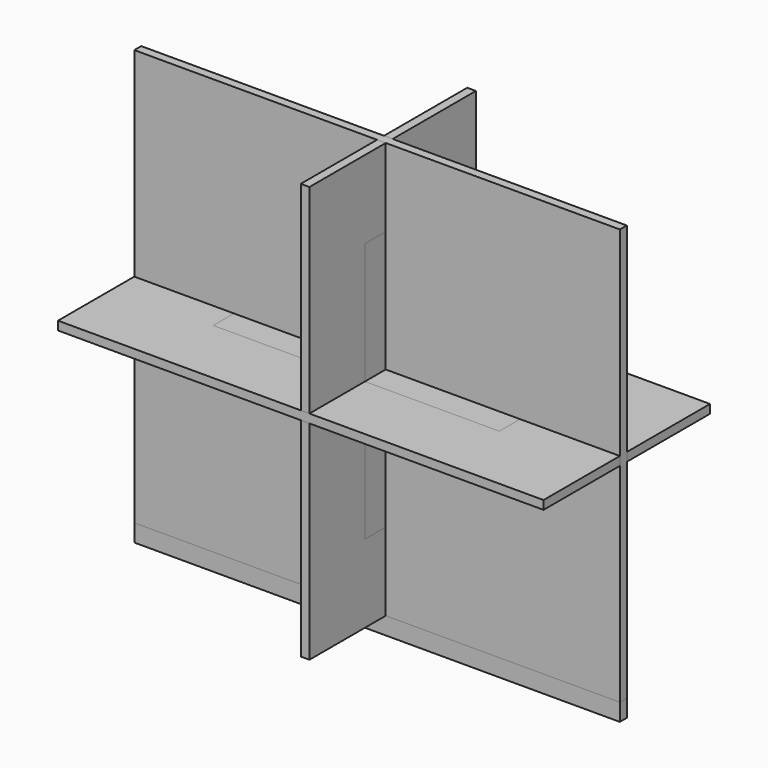
from build123d import *

# Parameters (mm, degrees)
F0_W      = 19.05
F0_H      = 31.75
F0_W_2    = 31.75
F0_H_2    = 19.05
F0_R      = 12.7
F0_R_2    = 9.525
F5_DEPTH  = 3.175
F1_W      = 104.775
F1_H      = 95.25
F6_DEPTH  = 3.175
F2_W      = 76.2
F2_H      = 152.4
F7_DEPTH  = 3.175
F3_W      = 177.8
F3_H      = 76.2
F8_DEPTH  = 3.175
F4_W      = 177.8
F4_H      = 152.4
F9_DEPTH  = 3.175
F10_W     = 25.4
F10_H     = 95.25
F11_DEPTH = 3.175
F12_W     = 104.775
F12_H     = 25.4
F13_DEPTH = 3.175


with BuildPart() as f5:
    # F0 (on Front) → F5 (new body)
    with BuildSketch(Plane.XZ):
        Polygon((-19.05, -25.4), (-19.05, 69.85), (-88.9, 69.85), (-88.9, -69.85), (-88.9, -82.55), (88.9, -82.55), (88.9, -69.85), (88.9, -47.625), (88.9, -25.4), align=None)
        with Locations((-60.325, -53.975)):
            Rectangle(F0_W, F0_H, mode=Mode.SUBTRACT)
        with Locations((-22.225, -53.975)):
            Rectangle(F0_W, F0_H, mode=Mode.SUBTRACT)
        with Locations((-53.975, -12.7)):
            Rectangle(F0_W_2, F0_H_2, mode=Mode.SUBTRACT)
        with Locations((15.875, -53.975)):
            Rectangle(F0_W, F0_H, mode=Mode.SUBTRACT)
        with Locations((57.15, -53.975)):
            Circle(F0_R, mode=Mode.SUBTRACT)
        with Locations((-53.975, 15.875)):
            Circle(F0_R_2, mode=Mode.SUBTRACT)
        with Locations((-53.975, 47.625)):
            Circle(F0_R, mode=Mode.SUBTRACT)
    extrude(amount=F5_DEPTH)


with BuildPart() as f6:
    # F1 (on Front) → F6 (new body)
    with BuildSketch(Plane.XZ):
        Rectangle(F1_W, F1_H)
    extrude(amount=F6_DEPTH)


with BuildPart() as f7:
    # F2 (on Right) → F7 (new body)
    with BuildSketch(Plane.YZ):
        Rectangle(F2_W, F2_H)
    extrude(amount=F7_DEPTH)


with BuildPart() as f8:
    # F3 (on Top) → F8 (new body)
    with BuildSketch(Plane.XY):
        Rectangle(F3_W, F3_H)
    extrude(amount=F8_DEPTH)


with BuildPart() as f9:
    # F4 (on Front) → F9 (new body)
    with BuildSketch(Plane.XZ):
        Rectangle(F4_W, F4_H)
    extrude(amount=F9_DEPTH)


with BuildPart() as f11:
    # F10 (on Right) → F11 (new body)
    with BuildSketch(Plane.YZ):
        Rectangle(F10_W, F10_H)
    extrude(amount=F11_DEPTH)


with BuildPart() as f13:
    # F12 (on Top) → F13 (new body)
    with BuildSketch(Plane.XY):
        Rectangle(F12_W, F12_H)
    extrude(amount=F13_DEPTH)


solid = Compound([f5.part, f6.part, f7.part, f8.part, f9.part, f11.part, f13.part])
